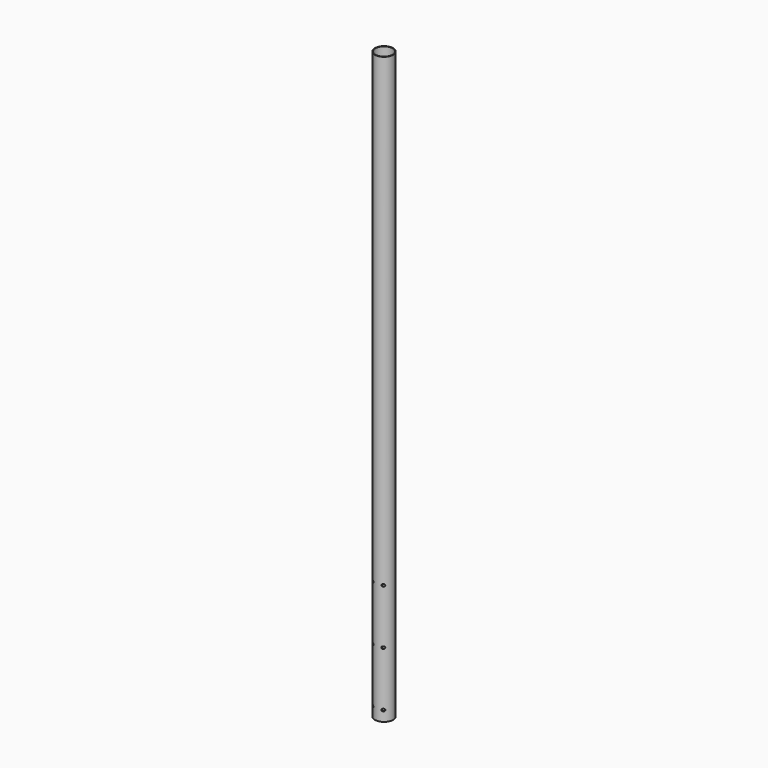
from build123d import *

# Parameters (mm, degrees)
F0_R          = 17.5
F1_DEPTH      = 1120
F2_D          = 33
F3_R          = 2.4
F4_DEPTH      = 25
F4_DEPTH_BACK = 25


with BuildPart() as f1:
    # F0 (on Top) → F1 (new body)
    with BuildSketch(Plane.XY):
        Circle(F0_R)
    extrude(amount=F1_DEPTH)

    # F2 (through all)
    with Locations(Plane(origin=(0, 0, 0), x_dir=(1, 0, 0), z_dir=(0, 0, -1))):
        with Locations((0, 0)):
            Hole(F2_D / 2)

    # F3 (on Front) → F4 (cut, two sides)
    with BuildSketch(Plane.XZ) as f4_sk:
        with Locations((10, 20)):
            Circle(F3_R)
        with Locations((-10, 20)):
            Circle(F3_R)
        with BuildLine():
            ThreePointArc((7.6, 125), (10, 122.6), (12.4, 125))
            ThreePointArc((12.4, 125), (10, 127.4), (7.6, 125))
        make_face()
        with BuildLine():
            ThreePointArc((-12.4, 125), (-10, 122.6), (-7.6, 125))
            Line((-7.6, 125), (-12.4, 125))
        make_face()
        with BuildLine():
            Line((-12.4, 125), (-7.6, 125))
            ThreePointArc((-7.6, 125), (-10, 127.4), (-12.4, 125))
        make_face()
        with Locations((-10, 230)):
            Circle(F3_R)
        with Locations((10, 230)):
            Circle(F3_R)
    extrude(amount=-F4_DEPTH, mode=Mode.SUBTRACT)
    extrude(f4_sk.sketch, amount=F4_DEPTH_BACK, mode=Mode.SUBTRACT)


solid = f1.part
